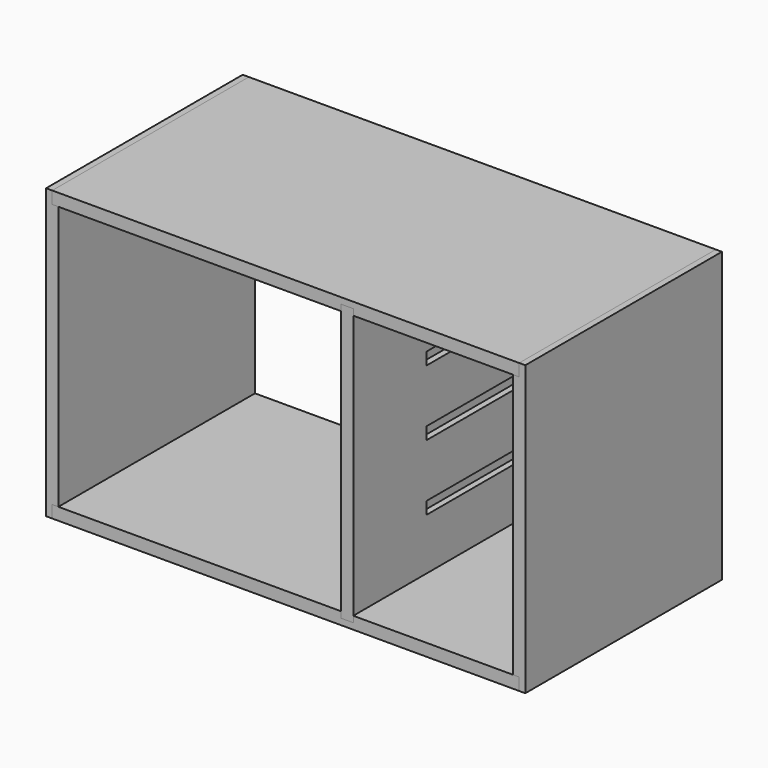
from build123d import *

# Parameters (mm, degrees)
F2_DEPTH  = 254
F4_DEPTH  = 254
F6_DEPTH  = 254
F7_W      = 482.6
F7_H      = 12.7
F8_DEPTH  = 254
F0_W      = 12.6999982595
F0_H      = 6.35
F9_DEPTH  = 254.001
F0_H_2    = 273.05
F10_DEPTH = 254
F12_START = -94.488
F11_W     = 177.8000017405
F11_H     = 12.7
F12_DEPTH = 159.512


with BuildPart() as f2:
    # F1 (on Front) → F2 (new body)
    with BuildSketch(Plane.XZ):
        Polygon((6.35, 298.45), (0, 298.45), (0, 0), (6.35, 0), (6.35, 12.7), (12.7, 12.7), (12.7, 285.75), (6.35, 285.75), align=None)
    extrude(amount=-F2_DEPTH)


with BuildPart() as f4:
    # F3 (on Front) → F4 (new body, through all)
    with BuildSketch(Plane.XZ):
        Polygon((6.35, 12.7), (6.35, 0), (488.95, 0), (488.95, 12.7), (12.7, 12.7), align=None)
    extrude(amount=-F4_DEPTH)


with BuildPart() as f6:
    # F5 (on Front) → F6 (new body, through all)
    with BuildSketch(Plane.XZ):
        Polygon((495.3, 298.45), (488.95, 298.45), (488.95, 285.75), (482.6, 285.75), (482.6, 12.7), (488.95, 12.7), (488.95, 0), (495.3, 0), align=None)
    extrude(amount=-F6_DEPTH)


with BuildPart() as f8:
    # F7 (on Front) → F8 (new body, through all)
    with BuildSketch(Plane.XZ):
        with Locations((247.65, 292.1)):
            Rectangle(F7_W, F7_H)
    extrude(amount=-F8_DEPTH)


with BuildPart() as f9_tool:
    # F0 (on Front) → F9 (new body, through all)
    with BuildSketch(Plane.XZ):
        with Locations((311.1499991298, 288.925)):
            Rectangle(F0_W, F0_H)
        with Locations((311.1499991298, 9.525)):
            Rectangle(F0_W, F0_H)
    extrude(amount=-F9_DEPTH)


with BuildPart() as f4_1:
    add(f4.part)

    # F9: cut by f9_tool
    add(f9_tool.part, mode=Mode.SUBTRACT)


with BuildPart() as f8_1:
    add(f8.part)

    # F9: cut by f9_tool
    add(f9_tool.part, mode=Mode.SUBTRACT)


with BuildPart() as f10:
    # F0 (on Front) → F10 (new body, through all)
    with BuildSketch(Plane.XZ):
        with Locations((311.1499991298, 149.225)):
            Rectangle(F0_W, F0_H_2)
        with Locations((311.1499991298, 288.925)):
            Rectangle(F0_W, F0_H)
        with Locations((311.1499991298, 9.525)):
            Rectangle(F0_W, F0_H)
    extrude(amount=-F10_DEPTH)


with BuildPart() as f12_tool:
    # F11 (on face) → F12 (new body)
    with BuildSketch(Plane.XZ.offset(F12_START)):
        with Locations((400.0499991298, 72.39)):
            Rectangle(F11_W, F11_H)
        with Locations((400.0499991298, 140.335)):
            Rectangle(F11_W, F11_H)
        with Locations((400.0499991298, 208.28)):
            Rectangle(F11_W, F11_H)
        with Locations((400.0499991298, 276.225)):
            Rectangle(F11_W, F11_H)
    extrude(amount=-F12_DEPTH)


with BuildPart() as f6_1:
    add(f6.part)

    # F12: cut by f12_tool
    add(f12_tool.part, mode=Mode.SUBTRACT)


with BuildPart() as f10_1:
    add(f10.part)

    # F12: cut by f12_tool
    add(f12_tool.part, mode=Mode.SUBTRACT)


solid = Compound([f2.part, f4_1.part, f8_1.part, f6_1.part, f10_1.part])
